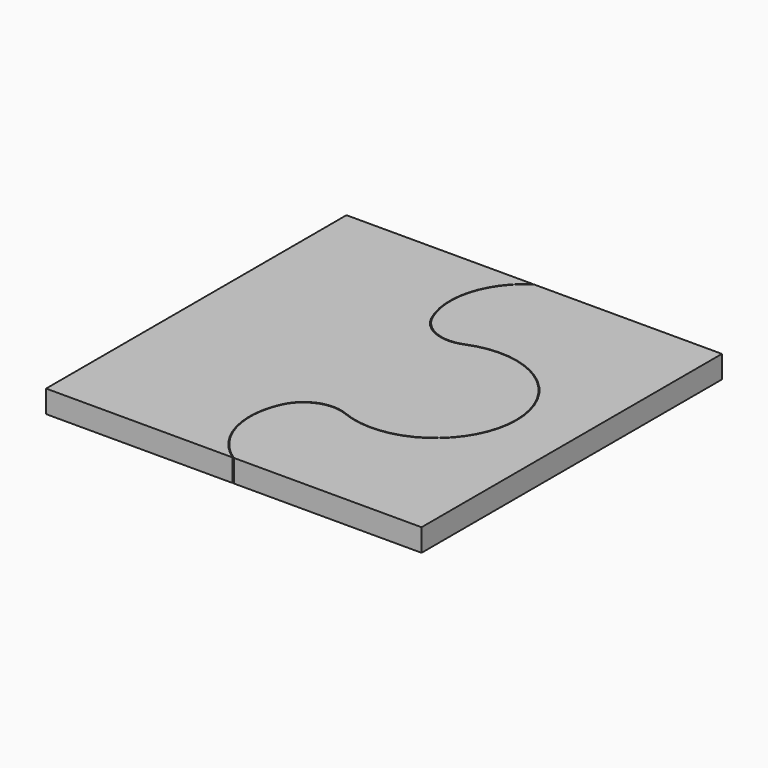
from build123d import *

# Parameters (mm, degrees)
F0_W     = 50
F0_H     = 50
F1_DEPTH = 3
F3_DEPTH = 25


with BuildPart() as f1:
    # F0 (on Top) → F1 (new body)
    with BuildSketch(Plane.XY):
        with Locations((-21.910651, -13.227186)):
            Rectangle(F0_W, F0_H)
    extrude(amount=F1_DEPTH)

    # F2 (on face) → F3 (cut)
    with BuildSketch(Plane.XY.offset(3)):
        with BuildLine():
            ThreePointArc((-25.534376, -0.591806), (-25.97931, 6.251908), (-21.910651, 11.772814))
            Line((-21.910651, 11.772814), (-22.089567, 11.772814))
            ThreePointArc((-22.089567, 11.772814), (-26.121946, 6.11564), (-25.546538, -0.807698))
            ThreePointArc((-25.546538, -0.807698), (-22.833423, -3.360831), (-19.108039, -3.329217))
            ThreePointArc((-19.108039, -3.329217), (-4.333992, -13.227186), (-19.108039, -23.125154))
            ThreePointArc((-19.108039, -23.125154), (-22.833423, -23.09354), (-25.546538, -25.646673))
            ThreePointArc((-25.546538, -25.646673), (-26.121946, -32.570011), (-22.089567, -38.227186))
            Line((-22.089567, -38.227186), (-21.910651, -38.227186))
            ThreePointArc((-21.910651, -38.227186), (-25.97931, -32.706279), (-25.534376, -25.862565))
            ThreePointArc((-25.534376, -25.862565), (-22.840476, -23.245848), (-19.084908, -23.24258))
            ThreePointArc((-19.084908, -23.24258), (-4.233992, -13.227186), (-19.084908, -3.211791))
            ThreePointArc((-19.084908, -3.211791), (-22.840476, -3.208523), (-25.534376, -0.591806))
        make_face()
    extrude(amount=-F3_DEPTH, mode=Mode.SUBTRACT)


solid = f1.part
